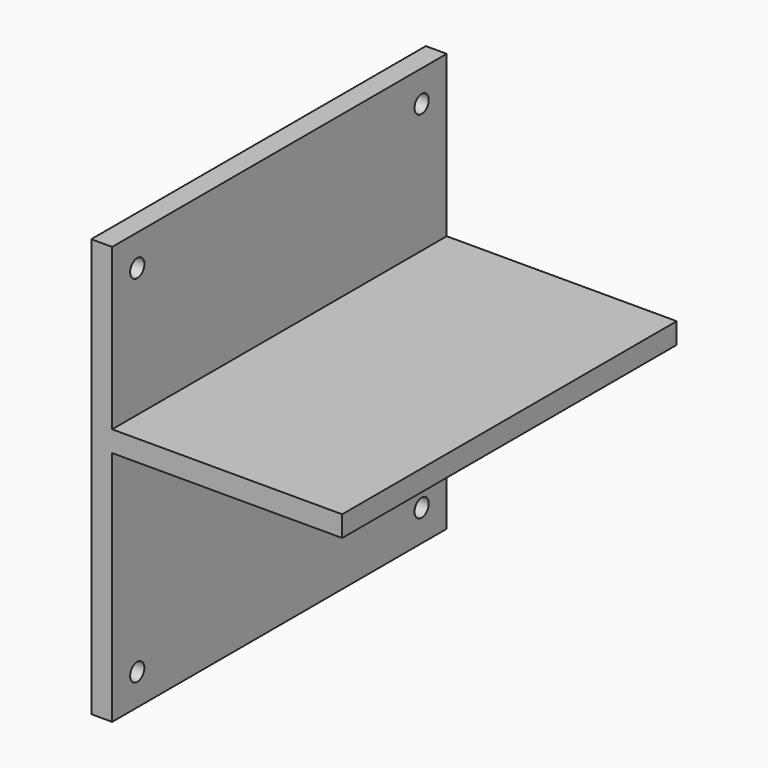
from build123d import *

# Parameters (mm, degrees)
F1_DEPTH = 200
F2_R     = 4.25
F3_DEPTH = 25


with BuildPart() as f1:
    # F0 (on Front) → F1 (new body)
    with BuildSketch(Plane.XZ):
        Polygon((-7.421314, 92.209982), (-17.421314, 92.209982), (-17.421314, -107.790018), (-7.421314, -107.790018), (-7.421314, -64.590018), (-7.421314, 5.409982), (62.578686, 5.409982), (102.578686, 5.409982), (102.578686, 15.409982), (-7.421314, 15.409982), align=None)
    extrude(amount=F1_DEPTH)

    # F2 (on face) → F3 (cut)
    with BuildSketch(Plane.YZ.offset(-7.421314)):
        with Locations((-185, 77.209982)):
            Circle(F2_R)
        with Locations((-15, 77.209982)):
            Circle(F2_R)
        with Locations((-185, -92.790018)):
            Circle(F2_R)
        with Locations((-15, -92.790018)):
            Circle(F2_R)
    extrude(amount=-F3_DEPTH, mode=Mode.SUBTRACT)


solid = f1.part
